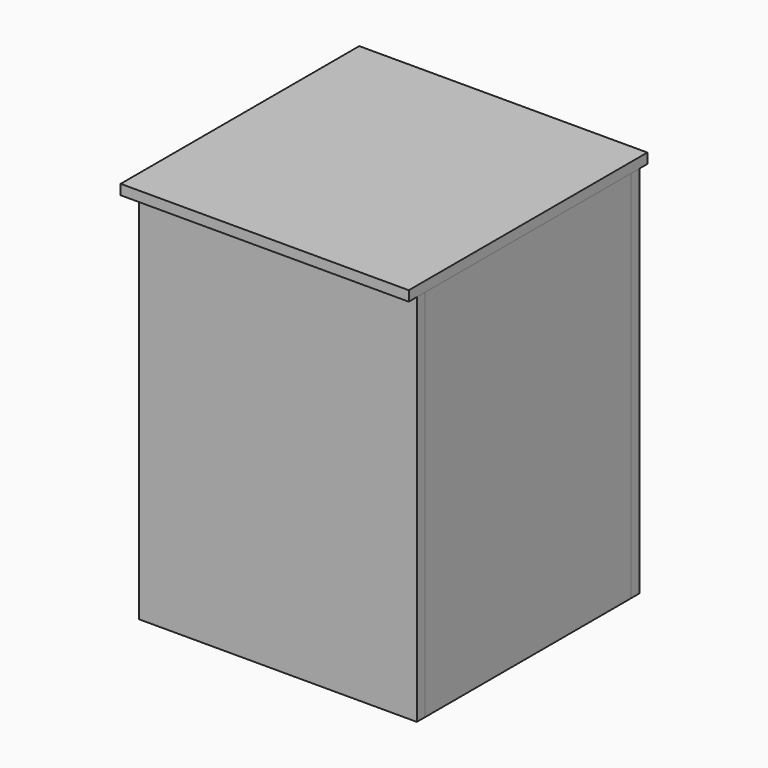
from build123d import *

# Parameters (mm, degrees)
F1_DEPTH = 74
F0_W     = 2
F0_H     = 51
F2_DEPTH = 74
F3_DEPTH = 74
F4_DEPTH = 74
F7_DEPTH = 2


with BuildPart() as f1:
    # F0 (on Top) → F1 (new body)
    with BuildSketch(Plane.XY):
        Polygon((27.5, 27.5), (-27.5, 27.5), (-27.5, 25.5), (-25.5, 25.5), (25.5, 25.5), (27.5, 25.5), align=None)
    extrude(amount=F1_DEPTH)


with BuildPart() as f2:
    # F0 (on Top) → F2 (new body)
    with BuildSketch(Plane.XY):
        with Locations((-26.5, 0)):
            Rectangle(F0_W, F0_H)
    extrude(amount=F2_DEPTH)


with BuildPart() as f3:
    # F0 (on Top) → F3 (new body)
    with BuildSketch(Plane.XY):
        Polygon((-25.5, -25.5), (-27.5, -25.5), (-27.5, -27.5), (27.5, -27.5), (27.5, -25.5), (25.5, -25.5), align=None)
    extrude(amount=F3_DEPTH)


with BuildPart() as f4:
    # F0 (on Top) → F4 (new body)
    with BuildSketch(Plane.XY):
        with Locations((26.5, 0)):
            Rectangle(F0_W, F0_H)
    extrude(amount=F4_DEPTH)


with BuildPart() as f7:
    # F6 (on offset) → F7 (new body)
    with BuildSketch(Plane.XY.offset(74)):
        Polygon((27.5, -27.5), (27.5, 27.5), (27.5, 29.5), (-29.5, 29.5), (-29.5, -29.5), (27.5, -29.5), align=None)
    extrude(amount=F7_DEPTH)


solid = Compound([f1.part, f2.part, f3.part, f4.part, f7.part])
